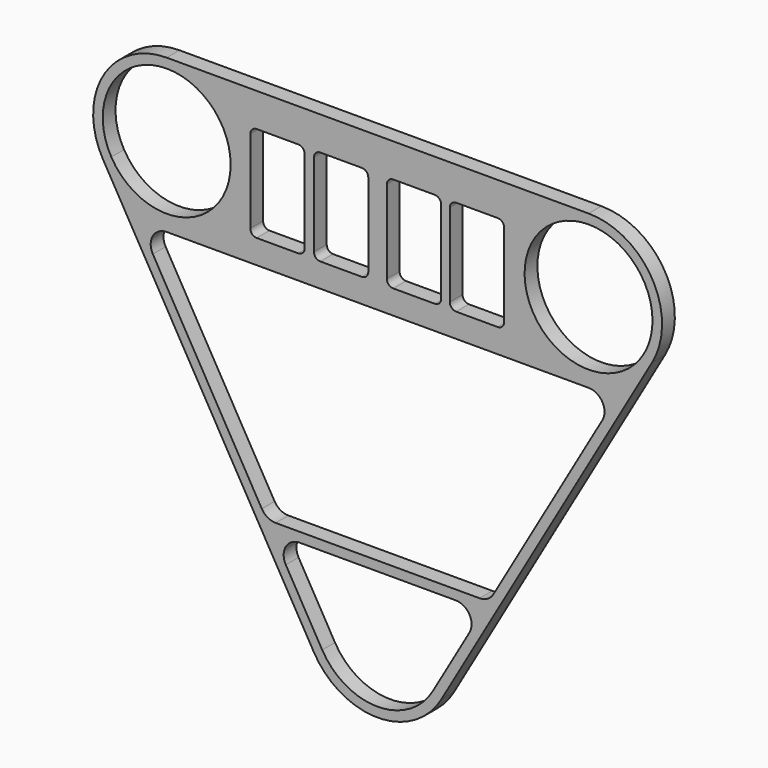
from build123d import *

# Parameters (mm, degrees)
F1_DEPTH = 2.5


with BuildPart() as f1:
    # F0 (on Front) → F1 (new body, symmetric)
    with BuildSketch(Plane.XZ):
        with BuildLine():
            Line((65.992885, 61.19331), (-65.955719, 61.19331))
            ThreePointArc((-65.955719, 61.19331), (-85.874302, 49.693311), (-85.874302, 26.693312))
            Line((-85.874302, 26.693312), (-19.9, -87.57753))
            ThreePointArc((-19.9, -87.57753), (0.018583, -99.07753), (19.937166, -87.57753))
            Line((19.937166, -87.57753), (85.911468, 26.693312))
            ThreePointArc((85.911468, 26.693312), (85.911468, 49.693311), (65.992885, 61.19331))
        make_face()
        with BuildLine():
            ThreePointArc((17.339091, -86.077531), (0.018583, -96.077531), (-17.301925, -86.077531))
            Line((-17.301925, -86.077531), (-28.700922, -66.33389))
            ThreePointArc((-28.700922, -66.33389), (-28.700922, -61.33389), (-24.370795, -58.83389))
            Line((-24.370795, -58.83389), (24.407961, -58.83389))
            ThreePointArc((24.407961, -58.83389), (28.738088, -61.33389), (28.738088, -66.33389))
            Line((28.738088, -66.33389), (17.339091, -86.077531))
        make_face(mode=Mode.SUBTRACT)
        with BuildLine():
            ThreePointArc((65.992885, 13.193311), (70.323012, 10.693311), (70.323012, 5.693311))
            Line((70.323012, 5.693311), (36.243641, -53.33389))
            ThreePointArc((36.243641, -53.33389), (34.413514, -55.164017), (31.913514, -55.83389))
            Line((31.913514, -55.83389), (-31.876348, -55.83389))
            ThreePointArc((-31.876348, -55.83389), (-34.376348, -55.164017), (-36.206475, -53.33389))
            Line((-36.206475, -53.33389), (-70.285846, 5.693311))
            ThreePointArc((-70.285846, 5.693311), (-70.285846, 10.693311), (-65.955719, 13.193311))
            Line((-65.955719, 13.193311), (22.599995, 13.193311))
            Line((22.599995, 13.193311), (65.992885, 13.193311))
        make_face(mode=Mode.SUBTRACT)
        with BuildLine():
            ThreePointArc((-83.276227, 28.193311), (-83.276227, 48.193311), (-65.955719, 58.193311))
            ThreePointArc((-65.955719, 58.193311), (-51.813583, 52.335447), (-45.955719, 38.193311))
            ThreePointArc((-45.955719, 38.193311), (-60.779338, 18.874795), (-83.276227, 28.193311))
        make_face(mode=Mode.SUBTRACT)
        with BuildLine():
            ThreePointArc((-39.8, 48.693311), (-39.214214, 50.107525), (-37.8, 50.693311))
            Line((-37.8, 50.693311), (-24.8, 50.693311))
            ThreePointArc((-24.8, 50.693311), (-23.385786, 50.107525), (-22.8, 48.693311))
            Line((-22.8, 48.693311), (-22.8, 22.693311))
            ThreePointArc((-22.8, 22.693311), (-23.385786, 21.279098), (-24.8, 20.693311))
            Line((-24.8, 20.693311), (-37.8, 20.693311))
            ThreePointArc((-37.8, 20.693311), (-39.214214, 21.279098), (-39.8, 22.693311))
            Line((-39.8, 22.693311), (-39.8, 48.693311))
        make_face(mode=Mode.SUBTRACT)
        with BuildLine():
            ThreePointArc((-19.9, 48.693311), (-19.314214, 50.107525), (-17.9, 50.693311))
            Line((-17.9, 50.693311), (-4.9, 50.693311))
            ThreePointArc((-4.9, 50.693311), (-3.485786, 50.107525), (-2.9, 48.693311))
            Line((-2.9, 48.693311), (-2.9, 22.693311))
            ThreePointArc((-2.9, 22.693311), (-3.485786, 21.279098), (-4.9, 20.693311))
            Line((-4.9, 20.693311), (-17.9, 20.693311))
            ThreePointArc((-17.9, 20.693311), (-19.314214, 21.279098), (-19.9, 22.693311))
            Line((-19.9, 22.693311), (-19.9, 48.693311))
        make_face(mode=Mode.SUBTRACT)
        with BuildLine():
            ThreePointArc((2.899996, 48.693311), (3.485782, 50.107525), (4.899996, 50.693311))
            Line((4.899996, 50.693311), (17.899996, 50.693311))
            ThreePointArc((17.899996, 50.693311), (19.314209, 50.107525), (19.899996, 48.693311))
            Line((19.899996, 48.693311), (19.899996, 22.693311))
            ThreePointArc((19.899996, 22.693311), (19.314209, 21.279098), (17.899996, 20.693311))
            Line((17.899996, 20.693311), (4.899996, 20.693311))
            ThreePointArc((4.899996, 20.693311), (3.485782, 21.279098), (2.899996, 22.693311))
            Line((2.899996, 22.693311), (2.899996, 48.693311))
        make_face(mode=Mode.SUBTRACT)
        with BuildLine():
            ThreePointArc((22.599995, 48.693311), (23.185782, 50.107525), (24.599995, 50.693311))
            Line((24.599995, 50.693311), (37.599995, 50.693311))
            ThreePointArc((37.599995, 50.693311), (39.014209, 50.107525), (39.599995, 48.693311))
            Line((39.599995, 48.693311), (39.599995, 22.693311))
            ThreePointArc((39.599995, 22.693311), (39.014209, 21.279098), (37.599995, 20.693311))
            Line((37.599995, 20.693311), (24.599995, 20.693311))
            ThreePointArc((24.599995, 20.693311), (23.185782, 21.279098), (22.599995, 22.693311))
            Line((22.599995, 22.693311), (22.599995, 48.693311))
        make_face(mode=Mode.SUBTRACT)
        with BuildLine():
            ThreePointArc((83.313393, 28.193311), (48.672377, 28.193311), (65.992885, 58.193311))
            ThreePointArc((65.992885, 58.193311), (80.13502, 52.335447), (85.992885, 38.193311))
            ThreePointArc((85.992885, 38.193311), (85.311401, 33.016931), (83.313393, 28.193311))
        make_face(mode=Mode.SUBTRACT)
    extrude(amount=F1_DEPTH, both=True)


solid = f1.part
